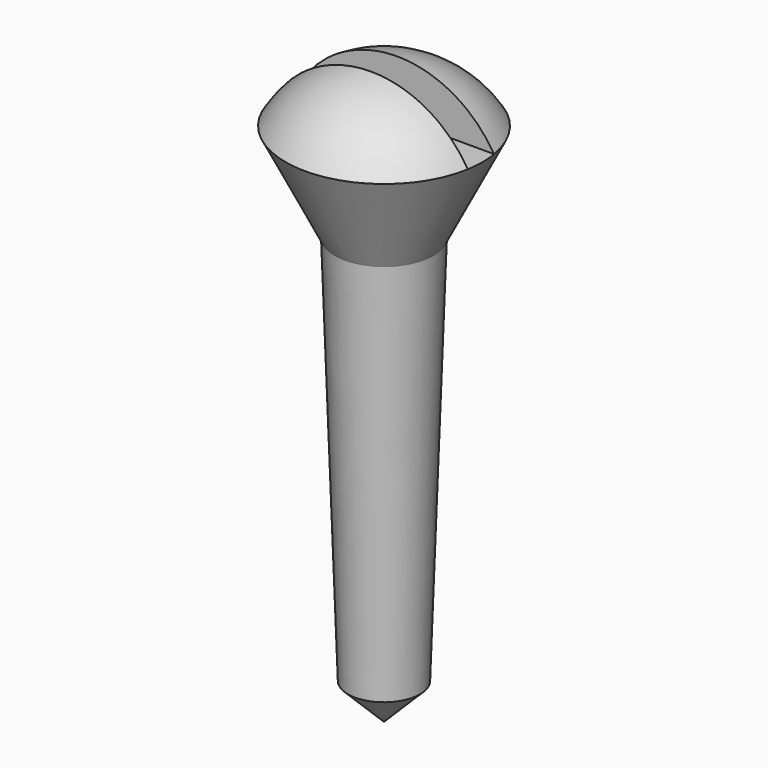
from build123d import *

# Parameters (mm, degrees)
F3_W     = 8
F3_H     = 1
F4_DEPTH = 2.4


with BuildPart() as f1:
    # F0 (on Front) → F1 (revolve)
    with BuildSketch(Plane.XZ):
        with BuildLine():
            Line((0, 17.697224), (0, 0))
            Line((0, 0), (1.1, 1.1))
            Line((1.1, 1.1), (1.5, 13))
            Line((1.5, 13), (3, 16))
            ThreePointArc((3, 16), (1.72341, 17.24351), (0, 17.697224))
        make_face()
    revolve(axis=Axis((0, 0, 8.848612), (0, 0, 1)))

    # F3 (on offset) → F4 (cut)
    with BuildSketch(Plane.XY.offset(16)):
        Rectangle(F3_W, F3_H)
    extrude(amount=F4_DEPTH, mode=Mode.SUBTRACT)


solid = f1.part
